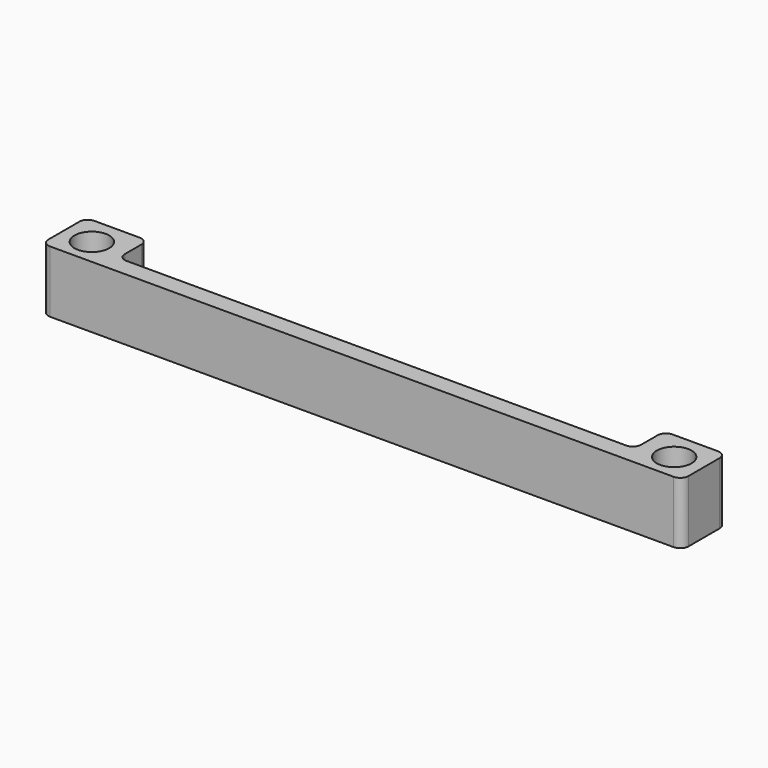
from build123d import *

# Parameters (mm, degrees)
F0_R     = 2.1
F1_DEPTH = 7.5


with BuildPart() as f1:
    # F0 (on Top) → F1 (new body)
    with BuildSketch(Plane.XY):
        with BuildLine():
            Line((-32.25, 23.5), (-37.75, 23.5))
            ThreePointArc((-37.75, 23.5), (-38.457107, 23.207107), (-38.75, 22.5))
            Line((-38.75, 22.5), (-38.75, 17.8))
            ThreePointArc((-38.75, 17.8), (-38.457107, 17.092893), (-37.75, 16.8))
            Line((-37.75, 16.8), (0, 16.8))
            Line((0, 16.8), (37.75, 16.8))
            ThreePointArc((37.75, 16.8), (38.457107, 17.092893), (38.75, 17.8))
            Line((38.75, 17.8), (38.75, 22.5))
            ThreePointArc((38.75, 22.5), (38.457107, 23.207107), (37.75, 23.5))
            Line((37.75, 23.5), (32.25, 23.5))
            ThreePointArc((32.25, 23.5), (31.542893, 23.207107), (31.25, 22.5))
            Line((31.25, 22.5), (31.25, 20))
            ThreePointArc((31.25, 20), (30.957107, 19.292893), (30.25, 19))
            Line((30.25, 19), (0, 19))
            Line((0, 19), (-30.25, 19))
            ThreePointArc((-30.25, 19), (-30.957107, 19.292893), (-31.25, 20))
            Line((-31.25, 20), (-31.25, 22.5))
            ThreePointArc((-31.25, 22.5), (-31.542893, 23.207107), (-32.25, 23.5))
        make_face()
        with Locations((-35.25, 20)):
            Circle(F0_R, mode=Mode.SUBTRACT)
        with Locations((35.25, 20)):
            Circle(F0_R, mode=Mode.SUBTRACT)
    extrude(amount=F1_DEPTH)


solid = f1.part
